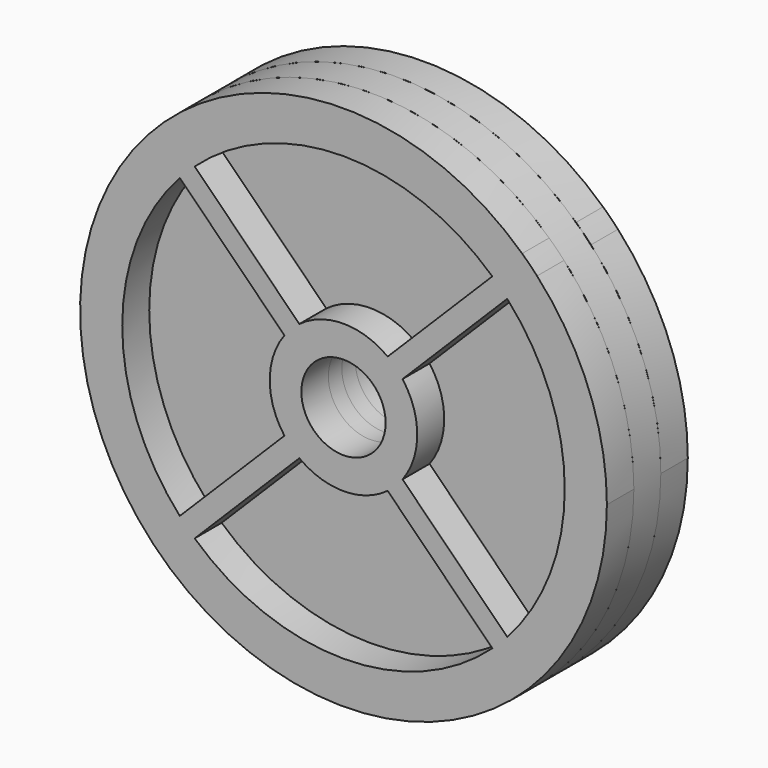
from build123d import *

# Parameters (mm, degrees)
F0_R     = 15.875
F0_R_2   = 2.54
F1_DEPTH = 1.016
F2_R     = 2.54
F3_DEPTH = 2.032


with BuildPart() as f1:
    # F0 (on Front) → F1 (new body)
    with BuildSketch(Plane.XZ):
        Circle(F0_R)
        Circle(F0_R_2, mode=Mode.SUBTRACT)
    extrude(amount=F1_DEPTH)

    # F4: F1 across plane


with BuildPart() as f3:
    # F2 (on face) → F3 (new body)
    with BuildSketch(Plane.XZ.offset(1.016)):
        with BuildLine():
            ThreePointArc((15.875, 0), (14.785179, 5.780493), (11.665349, 10.767323))
            ThreePointArc((11.665349, 10.767323), (11.22532, 11.22532), (10.767323, 11.665349))
            ThreePointArc((10.767323, 11.665349), (-14.542126, -6.367274), (15.875, 0))
        make_face()
        with BuildLine():
            Line((-8.969559, -9.867585), (-2.661839, -3.559865))
            ThreePointArc((-2.661839, -3.559865), (0, -4.445), (2.661839, -3.559865))
            Line((2.661839, -3.559865), (8.969559, -9.867585))
            ThreePointArc((8.969559, -9.867585), (0, -13.335), (-8.969559, -9.867585))
        make_face(mode=Mode.SUBTRACT)
        with BuildLine():
            Line((-9.867585, 8.969559), (-3.559865, 2.661839))
            ThreePointArc((-3.559865, 2.661839), (-4.445, 0), (-3.559865, -2.661839))
            Line((-3.559865, -2.661839), (-9.867585, -8.969559))
            ThreePointArc((-9.867585, -8.969559), (-13.335, 0), (-9.867585, 8.969559))
        make_face(mode=Mode.SUBTRACT)
        Circle(F2_R, mode=Mode.SUBTRACT)
        with BuildLine():
            ThreePointArc((3.559865, -2.661839), (4.445, 0), (3.559865, 2.661839))
            Line((3.559865, 2.661839), (9.867585, 8.969559))
            ThreePointArc((9.867585, 8.969559), (13.335, 0), (9.867585, -8.969559))
            Line((9.867585, -8.969559), (3.559865, -2.661839))
        make_face(mode=Mode.SUBTRACT)
        with BuildLine():
            Line((8.969559, 9.867585), (2.661839, 3.559865))
            ThreePointArc((2.661839, 3.559865), (0, 4.445), (-2.661839, 3.559865))
            Line((-2.661839, 3.559865), (-8.969559, 9.867585))
            ThreePointArc((-8.969559, 9.867585), (0, 13.335), (8.969559, 9.867585))
        make_face(mode=Mode.SUBTRACT)
    extrude(amount=F3_DEPTH)


with BuildPart() as f1_1:
    add(f1.part)
    add(f1.part.mirror(Plane.XZ))


with BuildPart() as f5_1:
    # F5: instance of F3
    add(f3.part.mirror(Plane.XZ))


solid = Compound([f3.part, f1_1.part, f5_1.part])
